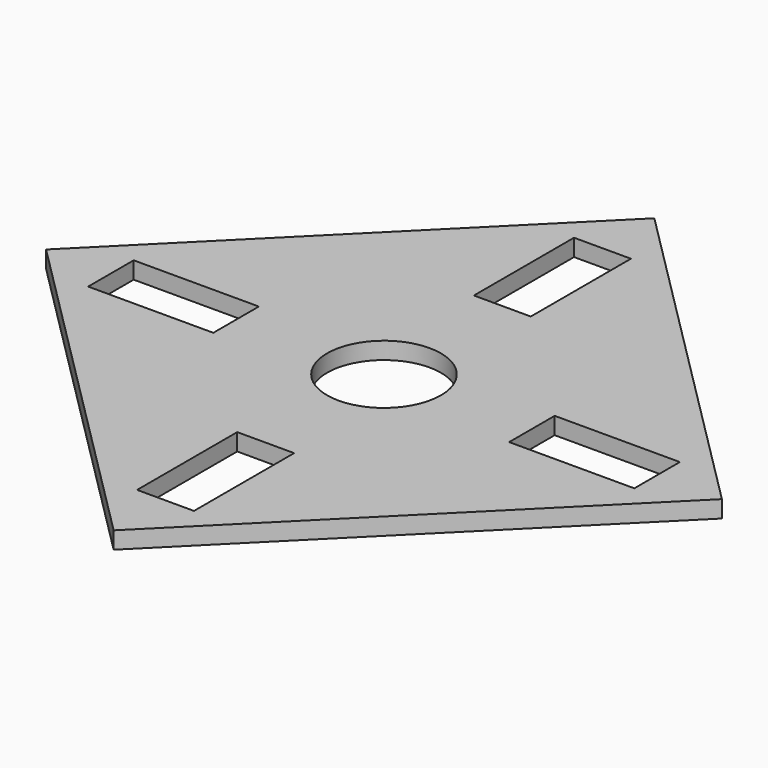
from build123d import *

# Parameters (mm, degrees)
SKETCH_R   = 5
SKETCH_W   = 11
SKETCH_H   = 5
SKETCH_W_2 = 5
SKETCH_H_2 = 11
PAD_DEPTH  = 1.5


with BuildPart() as part:
    # Sketch → Pad (new body)
    with BuildSketch(Plane.XY):
        Polygon((29.698485, 0), (0, 29.698485), (-29.698485, 0), (0, -29.698485), align=None)
        Circle(SKETCH_R, mode=Mode.SUBTRACT)
        with Locations((-18.5, 0)):
            Rectangle(SKETCH_W, SKETCH_H, mode=Mode.SUBTRACT)
        with Locations((0, 18.5)):
            Rectangle(SKETCH_W_2, SKETCH_H_2, mode=Mode.SUBTRACT)
        with Locations((0, -18.5)):
            Rectangle(SKETCH_W_2, SKETCH_H_2, mode=Mode.SUBTRACT)
        with Locations((18.5, 0)):
            Rectangle(SKETCH_W, SKETCH_H, mode=Mode.SUBTRACT)
    extrude(amount=PAD_DEPTH)


solid = part.part
